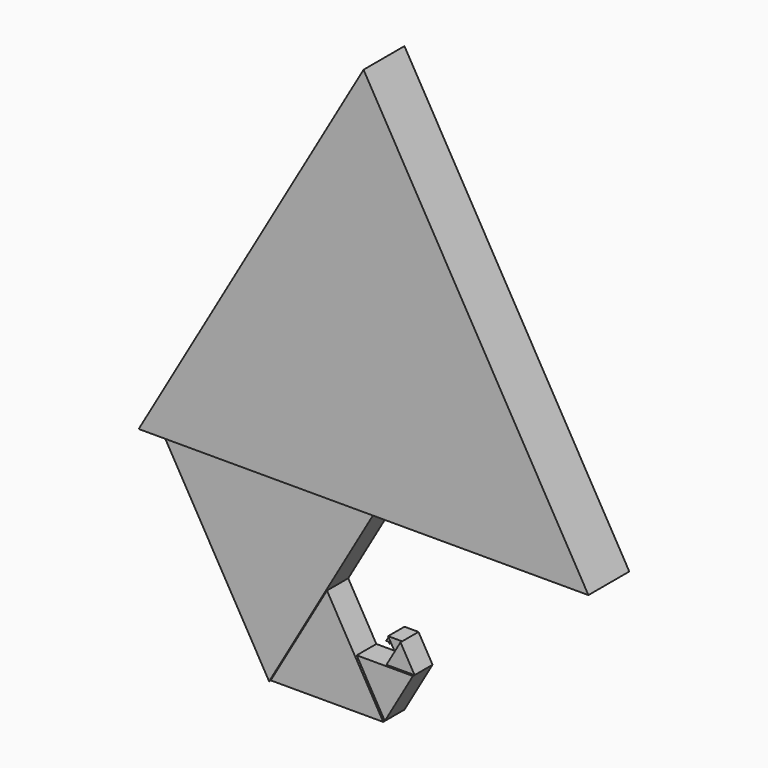
from build123d import *

# Parameters (mm, degrees)
F1_DEPTH  = 1
F2_DEPTH  = 2
F3_DEPTH  = 3
F4_DEPTH  = 4
F5_DEPTH  = 5
F6_DEPTH  = 6
F7_DEPTH  = 7
F8_DEPTH  = 8
F9_DEPTH  = 9
F10_DEPTH = 10
F11_DEPTH = 11
F12_DEPTH = 12
F13_DEPTH = 13
F14_DEPTH = 14
F15_DEPTH = 25


with BuildPart() as f1:
    # F0 (on Front) → F1 (new body)
    with BuildSketch(Plane.XZ):
        Polygon((-0.013426, -0.007751), (0.013426, -0.007751), (0, 0.015503), align=None)
    extrude(amount=F1_DEPTH)

    # F0 (on Front) → F2 (join)
    with BuildSketch(Plane.XZ):
        Polygon((0, 0.015503), (-0.026852, 0.015503), (-0.013426, -0.007751), align=None)
    extrude(amount=F2_DEPTH)

    # F0 (on Front) → F3 (join)
    with BuildSketch(Plane.XZ):
        Polygon((0.026852, 0.015503), (0, 0.062012), (-0.026852, 0.015503), (0, 0.015503), align=None)
    extrude(amount=F3_DEPTH)

    # F0 (on Front) → F4 (join)
    with BuildSketch(Plane.XZ):
        Polygon((0.053704, -0.031006), (0.107407, 0.062012), (0, 0.062012), (0.026852, 0.015503), align=None)
    extrude(amount=F4_DEPTH)

    # F0 (on Front) → F5 (join)
    with BuildSketch(Plane.XZ):
        Polygon((0, -0.124023), (0.214815, -0.124023), (0.107407, 0.062012), (0.053704, -0.031006), align=None)
    extrude(amount=F5_DEPTH)

    # F0 (on Front) → F6 (join)
    with BuildSketch(Plane.XZ):
        Polygon((-0.214815, -0.124023), (0, -0.496094), (0.214815, -0.124023), (0, -0.124023), align=None)
    extrude(amount=F6_DEPTH)

    # F0 (on Front) → F7 (join)
    with BuildSketch(Plane.XZ):
        Polygon((-0.42963, 0.248047), (-0.85926, -0.496094), (0, -0.496094), (-0.214815, -0.124023), align=None)
    extrude(amount=F7_DEPTH)

    # F0 (on Front) → F8 (join)
    with BuildSketch(Plane.XZ):
        Polygon((0, 0.992187), (-1.718519, 0.992187), (-0.85926, -0.496094), (-0.42963, 0.248047), align=None)
    extrude(amount=F8_DEPTH)

    # F0 (on Front) → F9 (join)
    with BuildSketch(Plane.XZ):
        Polygon((1.718519, 0.992188), (0, 3.96875), (-1.718519, 0.992187), (0, 0.992187), align=None)
    extrude(amount=F9_DEPTH)

    # F0 (on Front) → F10 (join)
    with BuildSketch(Plane.XZ):
        Polygon((3.437038, -1.984375), (6.874077, 3.96875), (0, 3.96875), (1.718519, 0.992188), align=None)
    extrude(amount=F10_DEPTH)

    # F0 (on Front) → F11 (join)
    with BuildSketch(Plane.XZ):
        Polygon((0, -7.9375), (13.748153, -7.9375), (6.874077, 3.96875), (3.437038, -1.984375), align=None)
    extrude(amount=F11_DEPTH)

    # F0 (on Front) → F12 (join)
    with BuildSketch(Plane.XZ):
        Polygon((-13.748153, -7.9375), (0, -31.75), (13.748153, -7.9375), (0, -7.9375), align=None)
    extrude(amount=F12_DEPTH)

    # F0 (on Front) → F13 (join)
    with BuildSketch(Plane.XZ):
        Polygon((-27.496307, 15.875), (-54.992613, -31.75), (0, -31.75), (-13.748153, -7.9375), align=None)
    extrude(amount=F13_DEPTH)

    # F0 (on Front) → F14 (join)
    with BuildSketch(Plane.XZ):
        Polygon((0, 63.5), (-109.985226, 63.5), (-54.992613, -31.75), (-27.496307, 15.875), align=None)
    extrude(amount=F14_DEPTH)

    # F0 (on Front) → F15 (join)
    with BuildSketch(Plane.XZ):
        Polygon((109.985226, 63.5), (0, 254), (-109.985226, 63.5), (0, 63.5), align=None)
    extrude(amount=F15_DEPTH)


solid = f1.part
